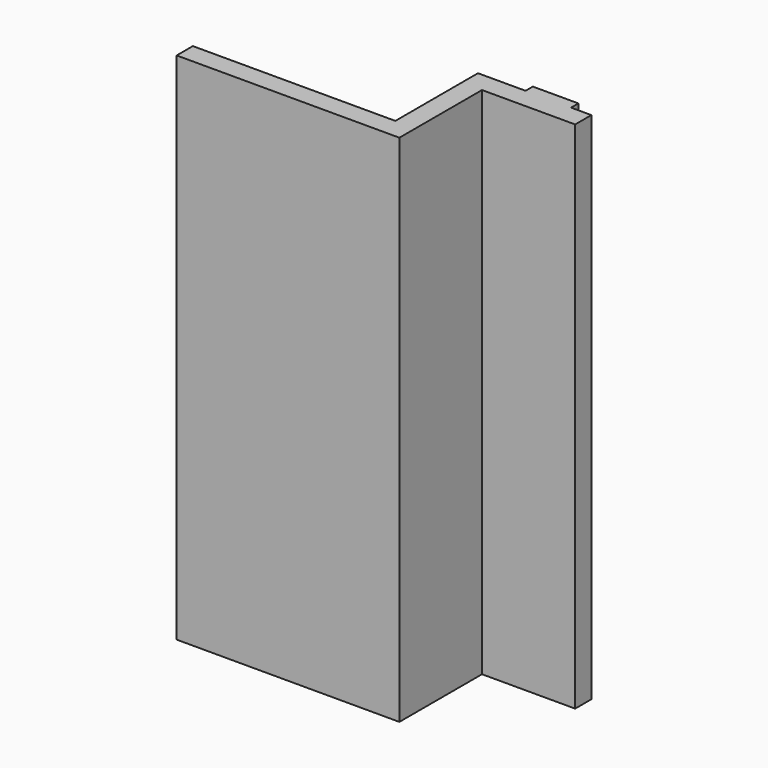
from build123d import *

# Parameters (mm, degrees)
F0_W     = 50
F0_H     = 5
F0_W_2   = 11.25
F0_H_2   = 2.25
F0_W_3   = 5
F1_DEPTH = 127


with BuildPart() as f1:
    # F0 (on Top) → F1 (new body)
    with BuildSketch(Plane.XY):
        with Locations((-25, -2.5)):
            Rectangle(F0_W, F0_H)
        Polygon((0, 25.5), (0, 0), (0, -5), (5, -5), (5, 20.5), (5, 25.5), align=None)
        Polygon((11.75, 25.5), (5, 25.5), (5, 20.5), (23, 20.5), (23, 25.5), align=None)
        with Locations((17.375, 26.625)):
            Rectangle(F0_W_2, F0_H_2)
        with Locations((25.5, 23)):
            Rectangle(F0_W_3, F0_H)
    extrude(amount=F1_DEPTH)


solid = f1.part
